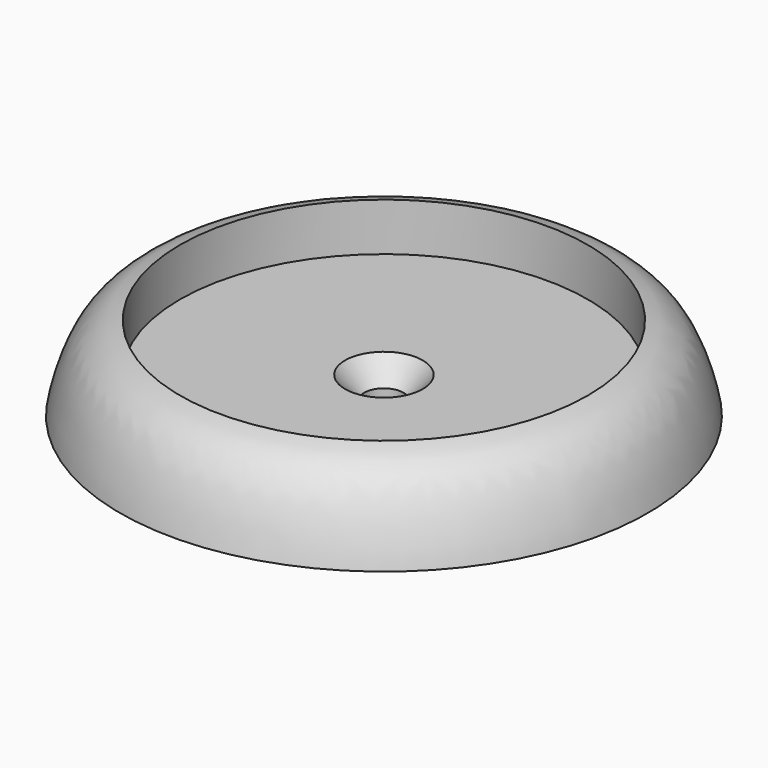
from build123d import *

# Parameters (mm, degrees)
F3_D           = 3.2639
F3_CSINK_D     = 6.477
F3_CSINK_ANGLE = 82


with BuildPart() as f1:
    # F0 (on Front) → F1 (revolve)
    with BuildSketch(Plane.XZ):
        with BuildLine():
            Line((0, -3), (0, 0))
            Line((0, 0), (-17, 0))
            Line((-17, 0), (-17, 4))
            add(Edge.make_bspline(
                [(-22, -3), (-21.72782784, -1.4077438007), (-20.6058260891, 2.3088049698), (-18.0098402751, 3.7952012304), (-17.3176534593, 3.9063362913), (-17, 4)],
                knots=[0, 0, 0, 0, 0.4696574279, 0.801419494, 1, 1, 1, 1], degree=3))
            Line((-22, -3), (-17, -3))
            Line((-17, -3), (0, -3))
        make_face()
    revolve(axis=Axis((0, 0, -1.5), (0, 0, -1)))

    # F3 (through all)
    with Locations(Plane.XY):
        with Locations((0, 0)):
            CounterSinkHole(F3_D / 2, F3_CSINK_D / 2, counter_sink_angle=F3_CSINK_ANGLE)


solid = f1.part
